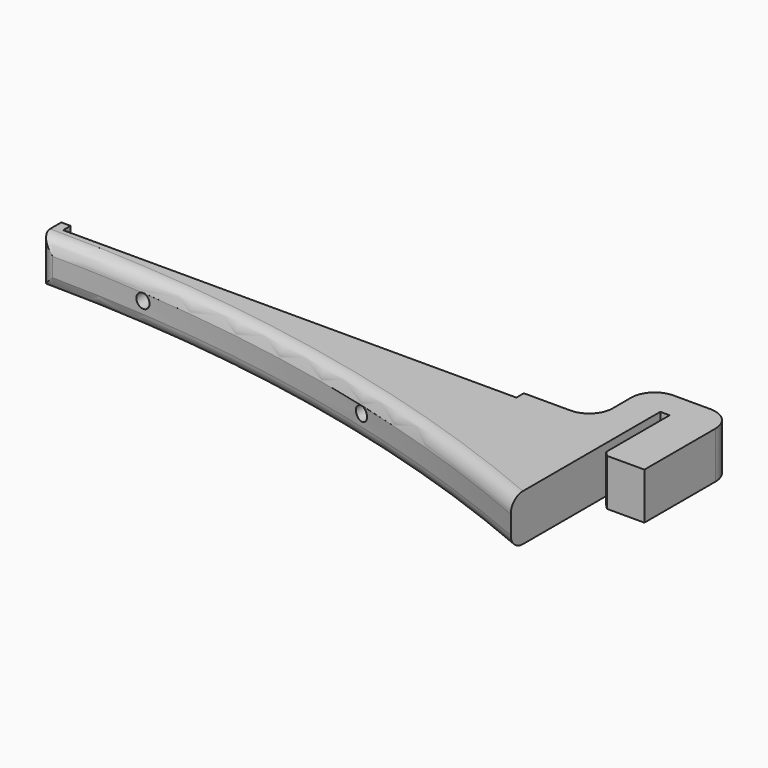
from build123d import *

# Parameters (mm, degrees)
F1_DEPTH = 10
F2_R     = 3
F3_R     = 5
F4_SIZE  = 1
F5_R     = 1.5
F6_DEPTH = 25


with BuildPart() as f1:
    # F0 (on Top) → F1 (new body)
    with BuildSketch(Plane.XY):
        with BuildLine():
            Line((-9, 0), (0, 0))
            Line((0, 0), (0, 24))
            Line((0, 24), (-18, 24))
            Line((-18, 24), (-18, 9))
            Line((-18, 9), (-33, 9))
            Line((-33, 9), (-33, 7))
            Line((-33, 7), (-130, 7))
            Line((-130, 7), (-130, 9))
            Line((-130, 9), (-132, 9))
            Line((-132, 9), (-132, 3))
            ThreePointArc((-132, 3), (-70.235689, -3.380733), (-11, -22))
            Line((-11, -22), (-11, 18))
            Line((-11, 18), (-9, 18))
            Line((-9, 18), (-9, 0))
        make_face()
    extrude(amount=F1_DEPTH)

    # F2
    f2_edges = [f1.edges().sort_by_distance(p)[0] for p in [
        (-70.235689, -3.380733, 0),
        (-70.235689, -3.380733, 10),
        (-132, 3, 5),
    ]]
    fillet(f2_edges, radius=F2_R)

    # F3
    f3_edges = [f1.edges().sort_by_distance(p)[0] for p in [
        (-18, 24, 5),
        (0, 24, 5),
        (-18, 9, 5),
    ]]
    fillet(f3_edges, radius=F3_R)

    # F4
    f4_edges = [f1.edges().sort_by_distance(p)[0] for p in [
        (-9, 0, 5),
    ]]
    chamfer(f4_edges, length=F4_SIZE)

    # F5 (on face) → F6 (cut)
    with BuildSketch(Plane(origin=(0, 7, 0), x_dir=(-1, 0, 0), z_dir=(0, 1, 0))):
        with Locations((55, 5.5)):
            Circle(F5_R)
        with Locations((109, 5.5)):
            Circle(F5_R)
    extrude(amount=-F6_DEPTH, mode=Mode.SUBTRACT)


solid = f1.part
